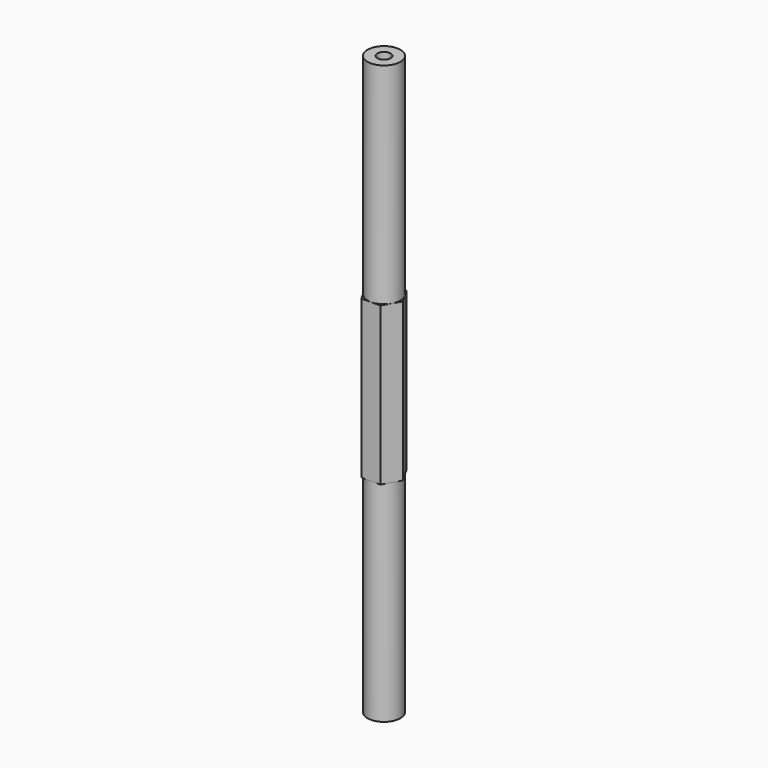
from build123d import *

# Parameters (mm, degrees)
F1_DEPTH = 279.4
F2_R     = 9.165436
F2_R_2   = 7.9375
F3_DEPTH = 101.6
F4_R     = 9.165436
F4_R_2   = 7.9375
F5_DEPTH = 101.6
F6_R     = 3.175
F7_DEPTH = 25.4
F8_R     = 3.175
F9_DEPTH = 25.4


with BuildPart() as f1:
    # F0 (on Top) → F1 (new body)
    with BuildSketch(Plane.XY):
        Polygon((-4.582718, 7.9375), (-9.165436, 0), (-4.582718, -7.9375), (4.582718, -7.9375), (9.165436, 0), (4.582718, 7.9375), align=None)
    extrude(amount=F1_DEPTH)

    # F2 (on face) → F3 (cut)
    with BuildSketch(Plane.XY.offset(279.4)):
        Circle(F2_R)
        Circle(F2_R_2, mode=Mode.SUBTRACT)
    extrude(amount=-F3_DEPTH, mode=Mode.SUBTRACT)

    # F4 (on face) → F5 (cut)
    with BuildSketch(Plane(origin=(0, 0, 0), x_dir=(1, 0, 0), z_dir=(0, 0, -1))):
        Circle(F4_R)
        Circle(F4_R_2, mode=Mode.SUBTRACT)
    extrude(amount=-F5_DEPTH, mode=Mode.SUBTRACT)

    # F6 (on face) → F7 (cut)
    with BuildSketch(Plane(origin=(0, 0, 0), x_dir=(1, 0, 0), z_dir=(0, 0, -1))):
        Circle(F6_R)
    extrude(amount=-F7_DEPTH, mode=Mode.SUBTRACT)

    # F8 (on face) → F9 (cut)
    with BuildSketch(Plane.XY.offset(279.4)):
        Circle(F8_R)
    extrude(amount=-F9_DEPTH, mode=Mode.SUBTRACT)


solid = f1.part
